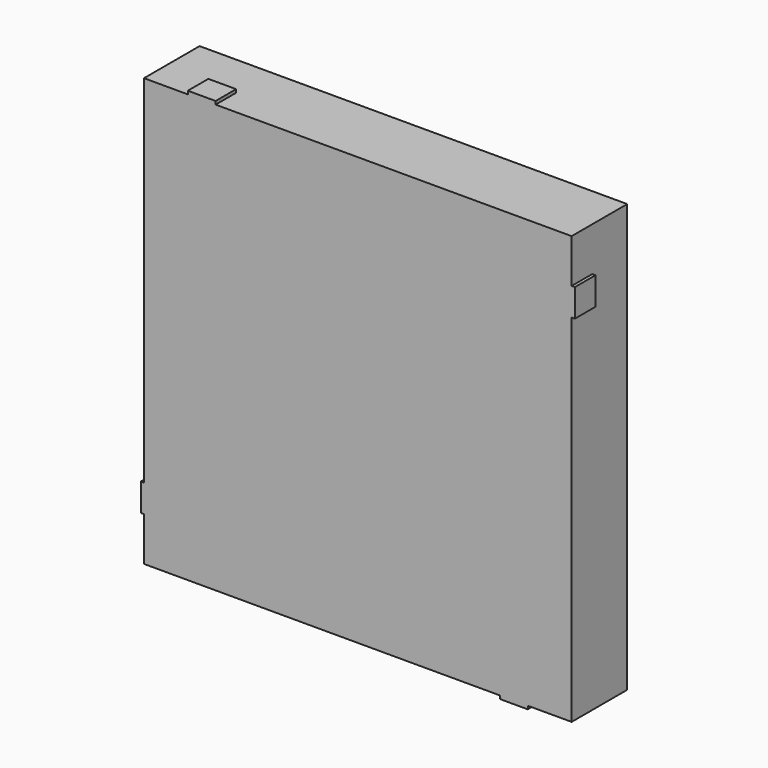
from build123d import *

# Parameters (mm, degrees)
SKETCH_W     = 4
SKETCH_H     = 4
PAD_DEPTH    = 0.65
SKETCH001_W  = 3
SKETCH001_H  = 3
POCKET_DEPTH = 0.15
SKETCH002_W  = 3
SKETCH002_H  = 3
PAD001_DEPTH = 0.15
SKETCH003_W  = 0.26
SKETCH003_H  = 0.24
PAD002_DEPTH = 0.03
SKETCH004_W  = 0.26
SKETCH004_H  = 0.24
PAD003_DEPTH = 0.03
SKETCH005_W  = 0.26
SKETCH005_H  = 0.24
PAD004_DEPTH = 0.03
SKETCH006_W  = 0.26
SKETCH006_H  = 0.24
PAD005_DEPTH = 0.03


with BuildPart() as part:
    # Sketch → Pad (new body)
    with BuildSketch(Plane.XZ):
        Rectangle(SKETCH_W, SKETCH_H)
    extrude(amount=PAD_DEPTH)

    # Sketch001 (on Face5 of Pad) → Pocket (cut)
    with BuildSketch(Plane(origin=(0, 0, 0), x_dir=(1, 0, 0), z_dir=(0, 1, 0))):
        Rectangle(SKETCH001_W, SKETCH001_H)
    extrude(amount=-POCKET_DEPTH, mode=Mode.SUBTRACT)

    # Sketch002 (on Face11 of Pocket) → Pad001 (join)
    with BuildSketch(Plane(origin=(0, -0.15, 0), x_dir=(1, 0, 0), z_dir=(0, 1, 0))):
        Rectangle(SKETCH002_W, SKETCH002_H)
    extrude(amount=PAD001_DEPTH)

    # Sketch003 (on Face1 of Pad001) → Pad002 (join)
    with BuildSketch(Plane(origin=(0, 0, 2), x_dir=(-1, 0, 0), z_dir=(0, 0, 1))):
        with Locations((1.46, 0.53)):
            Rectangle(SKETCH003_W, SKETCH003_H)
    extrude(amount=PAD002_DEPTH)

    # Sketch004 (on Face3 of Pad002) → Pad003 (join)
    with BuildSketch(Plane(origin=(2, 0, 0), x_dir=(0, 0, 1), z_dir=(1, 0, 0))):
        with Locations((1.46, 0.53)):
            Rectangle(SKETCH004_W, SKETCH004_H)
    extrude(amount=PAD003_DEPTH)

    # Sketch005 (on Face9 of Pad003) → Pad004 (join)
    with BuildSketch(Plane(origin=(0, 0, -2), x_dir=(1, 0, 0), z_dir=(0, 0, -1))):
        with Locations((1.46, 0.53)):
            Rectangle(SKETCH005_W, SKETCH005_H)
    extrude(amount=PAD004_DEPTH)

    # Sketch006 (on Face8 of Pad004) → Pad005 (join)
    with BuildSketch(Plane(origin=(-2, 0, 0), x_dir=(0, 0, -1), z_dir=(-1, 0, 0))):
        with Locations((1.46, 0.53)):
            Rectangle(SKETCH006_W, SKETCH006_H)
    extrude(amount=PAD005_DEPTH)


solid = part.part
